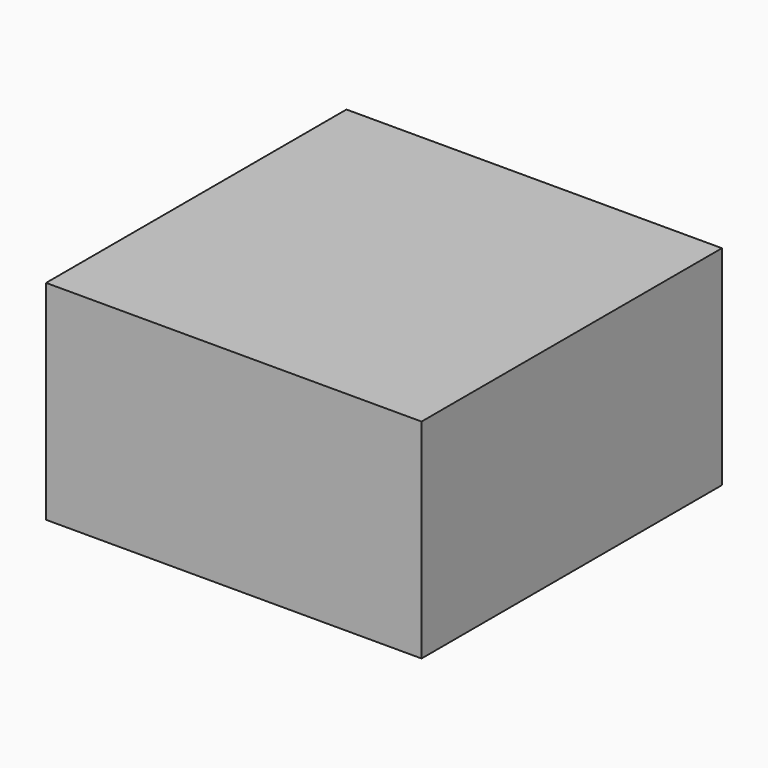
from build123d import *

# Parameters (mm, degrees)
SKETCH_W      = 90
SKETCH_H      = 90
EXTRUDE_DEPTH = 50


with BuildPart() as part:
    # Sketch → Extrude (new body)
    with BuildSketch(Plane.XY):
        Rectangle(SKETCH_W, SKETCH_H)
    extrude(amount=EXTRUDE_DEPTH)


solid = part.part
